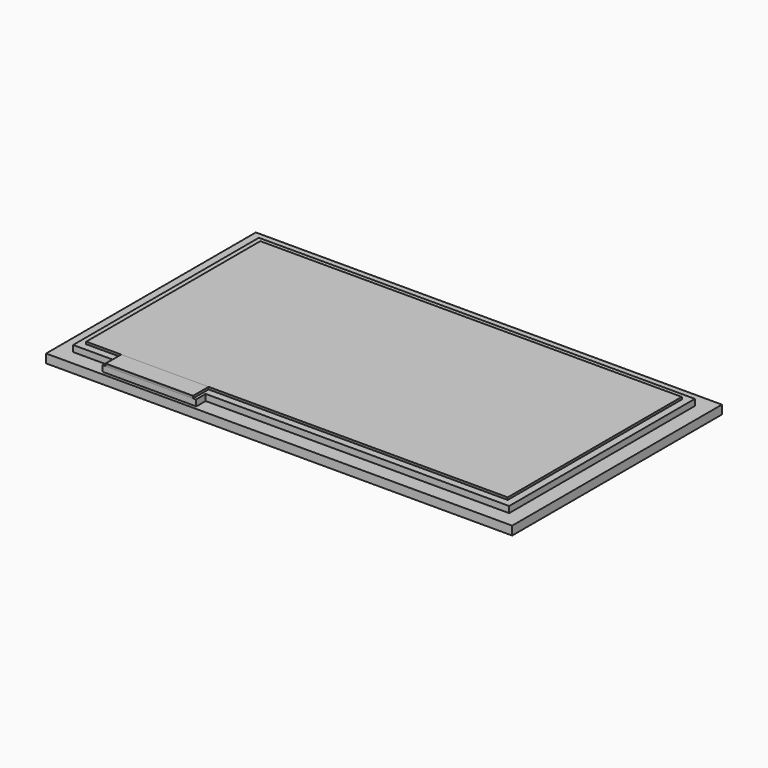
from build123d import *

# Parameters (mm, degrees)
F0_W      = 8000
F0_H      = 4500
F1_DEPTH  = 150
F2_W      = 7484
F2_H      = 3984
F3_DEPTH  = 8
F4_W      = 1600
F4_H      = 8
F5_DEPTH  = 201
F6_W      = 7484
F6_H      = 3984
F7_DEPTH  = 100
F8_W      = 1600
F8_H      = 100
F9_DEPTH  = 209
F10_W     = 7234
F10_H     = 3734
F11_DEPTH = 22
F12_W     = 1500
F12_H     = 22
F13_DEPTH = 334
F14_W     = 7234
F14_H     = 3734
F15_DEPTH = 18
F16_W     = 1500
F16_H     = 334
F17_DEPTH = 18


with BuildPart() as f1:
    # F0 (on Top) → F1 (new body)
    with BuildSketch(Plane.XY):
        with Locations((3901.859626174, 2215.0347903371)):
            Rectangle(F0_W, F0_H)
    extrude(amount=F1_DEPTH)


with BuildPart() as f3:
    # F2 (on face) → F3 (new body)
    with BuildSketch(Plane.XY.offset(150)):
        with Locations((3901.859626174, 2215.0347903371)):
            Rectangle(F2_W, F2_H)
    extrude(amount=F3_DEPTH)


with BuildPart() as f5:
    # F4 (on face) → F5 (new body)
    with BuildSketch(Plane.XZ.offset(-223.0347903371)):
        with Locations((1634.859626174, 154)):
            Rectangle(F4_W, F4_H)
    extrude(amount=F5_DEPTH)


with BuildPart() as f7:
    # F6 (on face) → F7 (new body)
    with BuildSketch(Plane.XY.offset(158)):
        with Locations((3901.859626174, 2215.0347903371)):
            Rectangle(F6_W, F6_H)
    extrude(amount=F7_DEPTH)


with BuildPart() as f9:
    # F8 (on face) → F9 (new body)
    with BuildSketch(Plane.XZ.offset(-223.0347903371)):
        with Locations((1634.859626174, 208)):
            Rectangle(F8_W, F8_H)
    extrude(amount=F9_DEPTH)


with BuildPart() as f11:
    # F10 (on face) → F11 (new body)
    with BuildSketch(Plane.XY.offset(258)):
        with Locations((3901.859626174, 2215.0347903371)):
            Rectangle(F10_W, F10_H)
    extrude(amount=F11_DEPTH)


with BuildPart() as f13:
    # F12 (on face) → F13 (new body)
    with BuildSketch(Plane.XZ.offset(-348.0347903371)):
        with Locations((1634.859626174, 269)):
            Rectangle(F12_W, F12_H)
    extrude(amount=F13_DEPTH)


with BuildPart() as f15:
    # F14 (on face) → F15 (new body)
    with BuildSketch(Plane.XY.offset(280)):
        with Locations((3901.859626174, 2215.0347903371)):
            Rectangle(F14_W, F14_H)
    extrude(amount=F15_DEPTH)


with BuildPart() as f17:
    # F16 (on face) → F17 (new body)
    with BuildSketch(Plane.XY.offset(280)):
        with Locations((1634.859626174, 181.0347903371)):
            Rectangle(F16_W, F16_H)
    extrude(amount=F17_DEPTH)


solid = Compound([f1.part, f3.part, f5.part, f7.part, f9.part, f11.part, f13.part, f15.part, f17.part])
